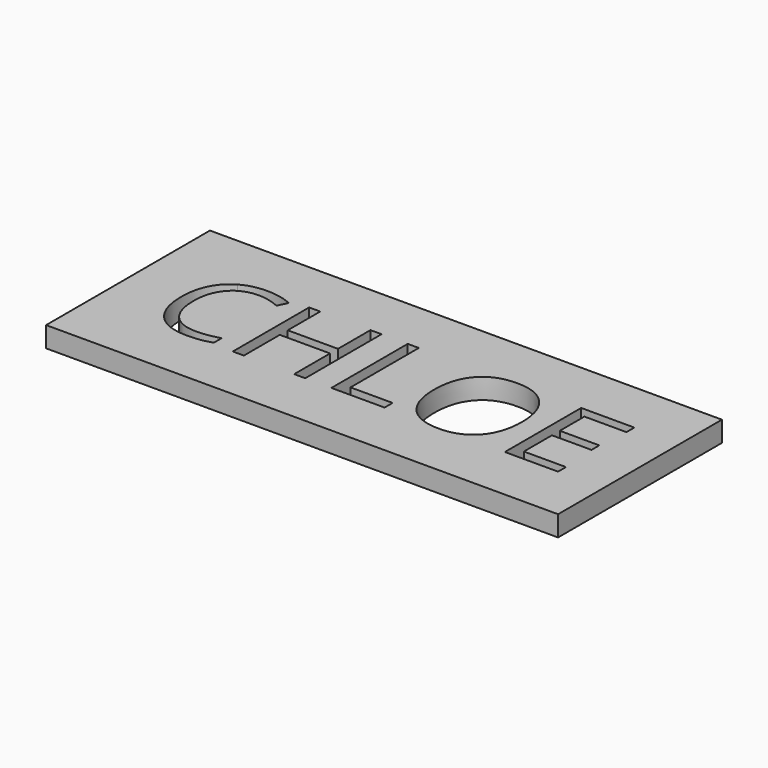
from build123d import *

# Parameters (mm, degrees)
F0_W     = 50
F0_H     = 20
F1_DEPTH = 2


with BuildPart() as f1:
    # F0 (on Top) → F1 (new body)
    with BuildSketch(Plane.XY):
        Rectangle(F0_W, F0_H)
        with BuildLine():
            add(Edge.make_bspline(
                [(-13.2876596552, 3.4753973501), (-14.3460879777, 3.970962056), (-15.4045163003, 3.970962056)],
                knots=[0, 0, 0, 1, 1, 1], degree=2))
            add(Edge.make_bspline(
                [(-15.4045163003, 3.970962056), (-16.9401550804, 3.970962056), (-17.8293164458, 2.9482225497)],
                knots=[0, 0, 0, 1, 1, 1], degree=2))
            add(Edge.make_bspline(
                [(-17.8293164458, 2.9482225497), (-18.7184778112, 1.9254830434), (-18.7184778112, 0.1471603126)],
                knots=[0, 0, 0, 1, 1, 1], degree=2))
            add(Edge.make_bspline(
                [(-18.7184778112, 0.1471603126), (-18.7184778112, -1.6801070805), (-17.8609265403, -2.6783742556)],
                knots=[0, 0, 0, 1, 1, 1], degree=2))
            add(Edge.make_bspline(
                [(-17.8609265403, -2.6783742556), (-17.0033752693, -3.6766414308), (-15.4167524659, -3.6766414308)],
                knots=[0, 0, 0, 1, 1, 1], degree=2))
            add(Edge.make_bspline(
                [(-15.4167524659, -3.6766414308), (-14.4419379414, -3.6766414308), (-13.1918096915, -3.3258713508)],
                knots=[0, 0, 0, 1, 1, 1], degree=2))
            Line((-13.1918096915, -3.3258713508), (-13.1918096915, -4.2741741832))
            add(Edge.make_bspline(
                [(-13.1918096915, -4.2741741832), (-14.1605061331, -4.6392197896), (-15.5819407012, -4.6392197896)],
                knots=[0, 0, 0, 1, 1, 1], degree=2))
            add(Edge.make_bspline(
                [(-15.5819407012, -4.6392197896), (-17.6396558794, -4.6392197896), (-18.7582453494, -3.3890915397)],
                knots=[0, 0, 0, 1, 1, 1], degree=2))
            add(Edge.make_bspline(
                [(-18.7582453494, -3.3890915397), (-19.8768348194, -2.1389632897), (-19.8768348194, 0.1614358391)],
                knots=[0, 0, 0, 1, 1, 1], degree=2))
            add(Edge.make_bspline(
                [(-19.8768348194, 0.1614358391), (-19.8768348194, 1.6012246556), (-19.3384435339, 2.6841253093)],
                knots=[0, 0, 0, 1, 1, 1], degree=2))
            add(Edge.make_bspline(
                [(-19.3384435339, 2.6841253093), (-18.8000522484, 3.767025963), (-17.7834308249, 4.3533422304)],
                knots=[0, 0, 0, 1, 1, 1], degree=2))
            add(Edge.make_bspline(
                [(-17.7834308249, 4.3533422304), (-16.7668094014, 4.9396584977), (-15.3902407738, 4.9396584977)],
                knots=[0, 0, 0, 1, 1, 1], degree=2))
            add(Edge.make_bspline(
                [(-15.3902407738, 4.9396584977), (-13.9259796262, 4.9396584977), (-12.828803446, 4.4053459341)],
                knots=[0, 0, 0, 1, 1, 1], degree=2))
            Line((-12.828803446, 4.4053459341), (-13.2876596552, 3.4753973501))
        make_face(mode=Mode.SUBTRACT)
        Polygon((-4.0840237789, 4.8071000372), (-4.0840237789, -4.510740051), (-5.1669244327, -4.510740051), (-5.1669244327, -0.126114052), (-10.0756661907, -0.126114052), (-10.0756661907, -4.510740051), (-11.1585668444, -4.510740051), (-11.1585668444, 4.8071000372), (-10.0756661907, 4.8071000372), (-10.0756661907, 0.8425823897), (-5.1669244327, 0.8425823897), (-5.1669244327, 4.8071000372), align=None, mode=Mode.SUBTRACT)
        Polygon((3.6655477543, -4.510740051), (-1.5287045339, -4.510740051), (-1.5287045339, 4.8071000372), (-0.4458038802, 4.8071000372), (-0.4458038802, -3.5298074438), (3.6655477543, -3.5298074438), align=None, mode=Mode.SUBTRACT)
        with BuildLine():
            add(Edge.make_bspline(
                [(12.2063913284, 3.6793334431), (13.3341579225, 2.4047328619), (13.3341579225, 0.1614358391)],
                knots=[0, 0, 0, 1, 1, 1], degree=2))
            add(Edge.make_bspline(
                [(13.3341579225, 0.1614358391), (13.3341579225, -2.0757431009), (12.2023126065, -3.3574814452)],
                knots=[0, 0, 0, 1, 1, 1], degree=2))
            add(Edge.make_bspline(
                [(12.2023126065, -3.3574814452), (11.0704672905, -4.6392197896), (9.0576180527, -4.6392197896)],
                knots=[0, 0, 0, 1, 1, 1], degree=2))
            add(Edge.make_bspline(
                [(9.0576180527, -4.6392197896), (6.9999028746, -4.6392197896), (5.8813134046, -3.3799144155)],
                knots=[0, 0, 0, 1, 1, 1], degree=2))
            add(Edge.make_bspline(
                [(5.8813134046, -3.3799144155), (4.7627239346, -2.1206090413), (4.7627239346, 0.1736720047)],
                knots=[0, 0, 0, 1, 1, 1], degree=2))
            add(Edge.make_bspline(
                [(4.7627239346, 0.1736720047), (4.7627239346, 2.4495988024), (5.884372446, 3.7017664133)],
                knots=[0, 0, 0, 1, 1, 1], degree=2))
            add(Edge.make_bspline(
                [(5.884372446, 3.7017664133), (7.0060209574, 4.9539340242), (9.0698542183, 4.9539340242)],
                knots=[0, 0, 0, 1, 1, 1], degree=2))
            add(Edge.make_bspline(
                [(9.0698542183, 4.9539340242), (11.0786247342, 4.9539340242), (12.2063913284, 3.6793334431)],
                knots=[0, 0, 0, 1, 1, 1], degree=2))
        make_face(mode=Mode.SUBTRACT)
        Polygon((20.6044796373, -3.5420436094), (20.6044796373, -4.510740051), (15.4102273491, -4.510740051), (15.4102273491, 4.8071000372), (20.6044796373, 4.8071000372), (20.6044796373, 3.8445216784), (16.4931280028, 3.8445216784), (16.4931280028, 0.8425823897), (20.3556776039, 0.8425823897), (20.3556776039, -0.1138778864), (16.4931280028, -0.1138778864), (16.4931280028, -3.5420436094), align=None, mode=Mode.SUBTRACT)
    extrude(amount=F1_DEPTH)


solid = f1.part
